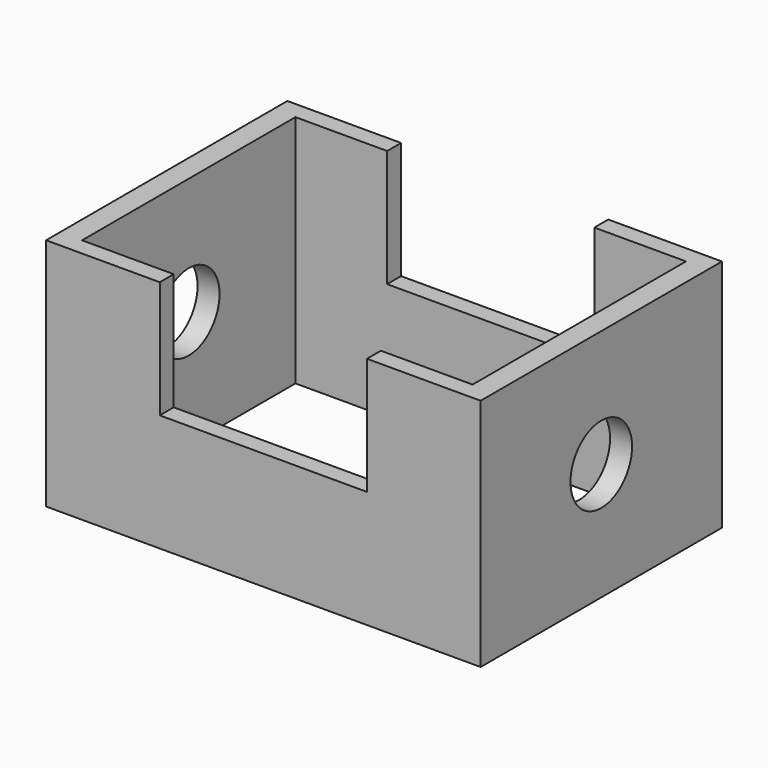
from build123d import *

# Parameters (mm, degrees)
F0_W     = 141.246706
F0_H     = 98.03833
F0_W_2   = 126.943246
F0_H_2   = 86.714752
F1_DEPTH = 76.2
F2_R     = 12.513624
F3_DEPTH = 255.778
F4_W     = 67.345478
F4_H     = 38.1
F5_DEPTH = 172.466


with BuildPart() as f1:
    # F0 (on Top) → F1 (new body)
    with BuildSketch(Plane.XY):
        Rectangle(F0_W, F0_H)
        Rectangle(F0_W_2, F0_H_2, mode=Mode.SUBTRACT)
    extrude(amount=F1_DEPTH)

    # F2 (on face) → F3 (cut)
    with BuildSketch(Plane.YZ.offset(70.623353)):
        with Locations((0, 38.1)):
            Circle(F2_R)
    extrude(amount=-F3_DEPTH, mode=Mode.SUBTRACT)

    # F4 (on face) → F5 (cut)
    with BuildSketch(Plane.XZ.offset(49.019165)):
        with Locations((0, 57.15)):
            Rectangle(F4_W, F4_H)
    extrude(amount=-F5_DEPTH, mode=Mode.SUBTRACT)


solid = f1.part
